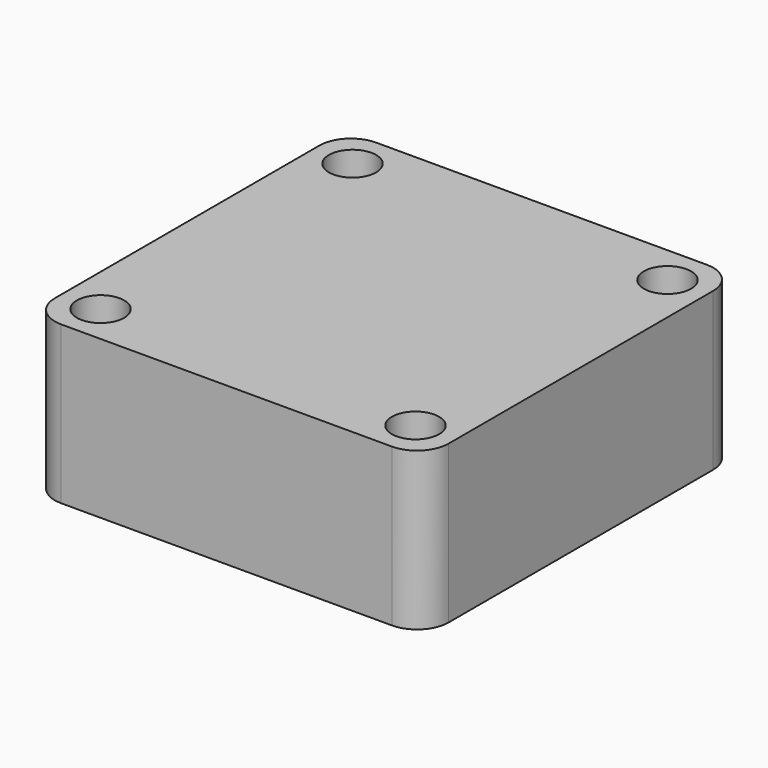
from build123d import *

# Parameters (mm, degrees)
F0_W     = 25
F0_H     = 25
F0_R     = 1.5
F1_DEPTH = 10
F2_R     = 2


with BuildPart() as f1:
    # F0 (on Top) → F1 (new body)
    with BuildSketch(Plane.XY):
        Rectangle(F0_W, F0_H)
        with Locations((-10, -10)):
            Circle(F0_R, mode=Mode.SUBTRACT)
        with Locations((10, -10)):
            Circle(F0_R, mode=Mode.SUBTRACT)
        with Locations((-10, 10)):
            Circle(F0_R, mode=Mode.SUBTRACT)
        with Locations((10, 10)):
            Circle(F0_R, mode=Mode.SUBTRACT)
    extrude(amount=F1_DEPTH)

    # F2
    f2_edges = [f1.edges().sort_by_distance(p)[0] for p in [
        (-12.5, -12.5, 5),
        (12.5, -12.5, 5),
        (12.5, 12.5, 5),
        (-12.5, 12.5, 5),
    ]]
    fillet(f2_edges, radius=F2_R)


solid = f1.part
